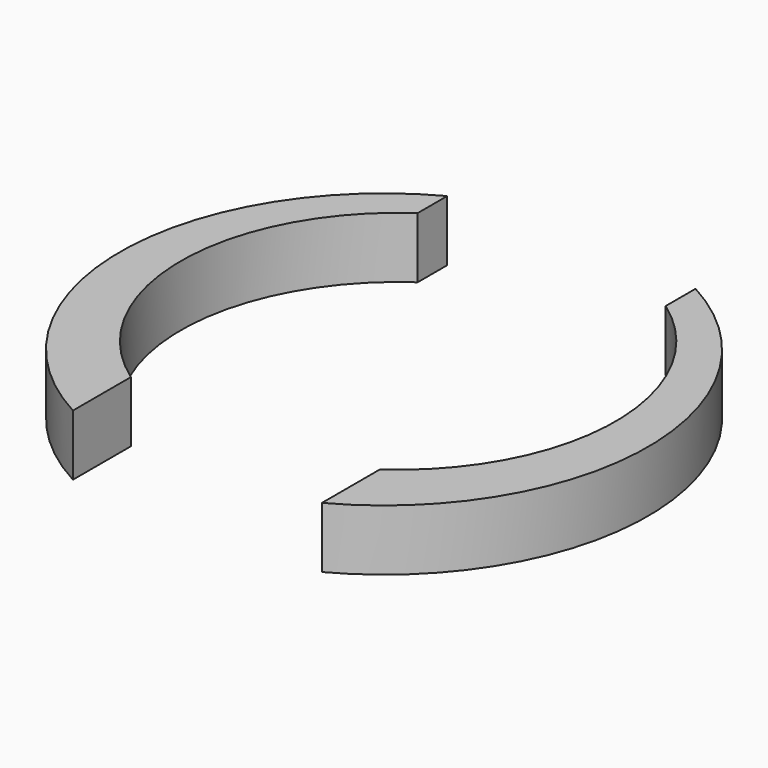
from build123d import *

# Parameters (mm, degrees)
F0_R     = 82.55
F1_DEPTH = 9.525
F2_W     = 24.13
F2_H     = 99.441
F3_DEPTH = 9.525
F4_R     = 67.945
F5_DEPTH = 19.05
F7_DEPTH = 9.525
F9_DEPTH = 22.225


with BuildPart() as f1:
    # F0 (on Top) → F1 (new body, symmetric)
    with BuildSketch(Plane.XY):
        Circle(F0_R)
    extrude(amount=F1_DEPTH, both=True)

    # F2 (on Top) → F3 (cut, symmetric)
    with BuildSketch(Plane.XY):
        with Locations((9.92e-08, -32.9009743614)):
            Rectangle(F2_W, F2_H)
    extrude(amount=F3_DEPTH, both=True, mode=Mode.SUBTRACT)

    # F4 (on face) → F5 (cut)
    with BuildSketch(Plane.XY.offset(9.525)):
        with Locations((0, 5.5118)):
            Circle(F4_R)
    extrude(amount=-F5_DEPTH, mode=Mode.SUBTRACT)

    # F6 (on Top) → F7 (cut, symmetric)
    with BuildSketch(Plane.XY):
        Polygon((38.8619990952, -40.2722091794), (-5.8420009048, -40.2722091794), (-39.1160009048, -40.2722091794), (-39.1160009048, -91.0722091794), (38.8619990952, -91.0722091794), align=None)
    extrude(amount=F7_DEPTH, both=True, mode=Mode.SUBTRACT)

    # F8 (on Top) → F9 (cut, symmetric)
    with BuildSketch(Plane.XY):
        Polygon((39.3687439047, 102.805023804), (6.0959986031, 102.5160668969), (-38.6080013969, 102.5160668969), (-38.6080013969, 51.7160668969), (6.0959986031, 51.7160668969), (39.3687439047, 51.7160668969), align=None)
    extrude(amount=F9_DEPTH, both=True, mode=Mode.SUBTRACT)


solid = f1.part
